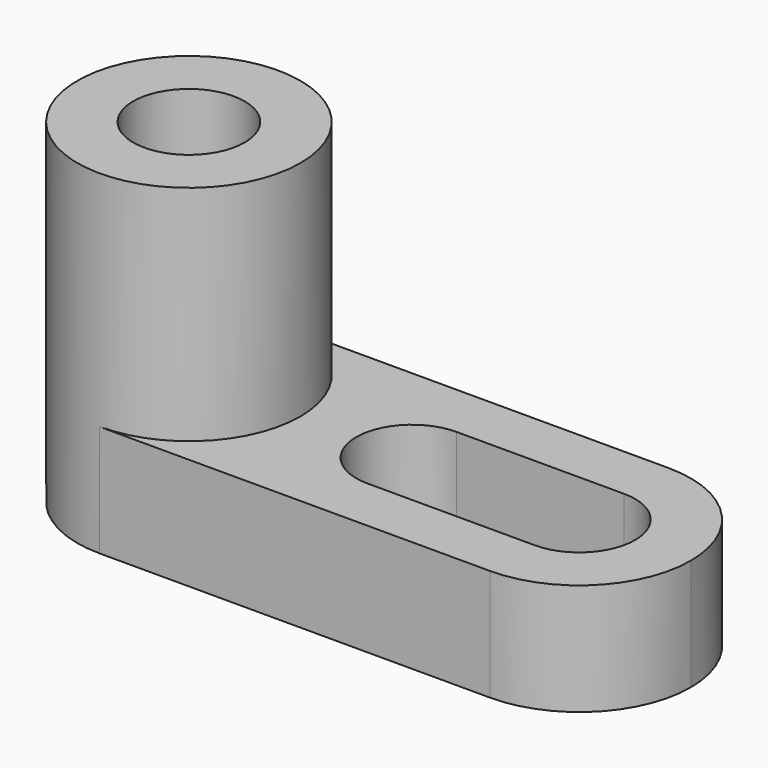
from build123d import *

# Parameters (mm, degrees)
F0_W     = 69.85
F0_H     = 12.7
F1_DEPTH = 25.4
F2_R     = 12.7
F2_R_2   = 6.35
F3_DEPTH = 25.4
F4_DEPTH = 25.4
F6_DEPTH = 25.4


with BuildPart() as f1:
    # F0 (on Front) → F1 (new body)
    with BuildSketch(Plane.XZ):
        with Locations((34.925, 6.35)):
            Rectangle(F0_W, F0_H)
    extrude(amount=F1_DEPTH)

    # F2 (on face) → F3 (join)
    with BuildSketch(Plane.XY.offset(12.7)):
        with Locations((12.7, -12.7)):
            Circle(F2_R)
        with Locations((12.7, -12.7)):
            Circle(F2_R_2, mode=Mode.SUBTRACT)
    extrude(amount=F3_DEPTH)

    # F4 (cut): faces of the model
    f4_faces = [f1.faces().sort_by_distance(p)[0] for p in [
        (2.8367728246, -22.5632271754, 12.7),
        (2.8367728246, -2.8367728246, 12.7),
    ]]
    extrude(f4_faces, amount=-F4_DEPTH, mode=Mode.SUBTRACT)

    # F5 (on face) → F6 (cut)
    with BuildSketch(Plane.XY.offset(12.7)):
        with BuildLine():
            ThreePointArc((38.1, -19.05), (42.5901280605, -17.1901280605), (44.45, -12.7))
            ThreePointArc((44.45, -12.7), (42.5901280605, -8.2098719395), (38.1, -6.35))
            ThreePointArc((38.1, -6.35), (31.75, -12.7), (38.1, -19.05))
        make_face()
        with BuildLine():
            ThreePointArc((38.1, -6.35), (42.5901280605, -8.2098719395), (44.45, -12.7))
            ThreePointArc((44.45, -12.7), (42.5901280605, -17.1901280605), (38.1, -19.05))
            Line((38.1, -19.05), (57.15, -19.05))
            ThreePointArc((57.15, -19.05), (50.8, -12.7), (57.15, -6.35))
            Line((57.15, -6.35), (38.1, -6.35))
        make_face()
        with BuildLine():
            ThreePointArc((63.5, -12.7), (61.6401280605, -8.2098719395), (57.15, -6.35))
            ThreePointArc((57.15, -6.35), (50.8, -12.7), (57.15, -19.05))
            ThreePointArc((57.15, -19.05), (61.6401280605, -17.1901280605), (63.5, -12.7))
        make_face()
        with BuildLine():
            ThreePointArc((57.15, 0), (66.1302561211, -3.7197438789), (69.85, -12.7))
            Line((69.85, -12.7), (69.85, 0))
            Line((69.85, 0), (57.15, 0))
        make_face()
        with BuildLine():
            ThreePointArc((69.85, -12.7), (66.1302561211, -21.6802561211), (57.15, -25.4))
            Line((57.15, -25.4), (69.85, -25.4))
            Line((69.85, -25.4), (69.85, -12.7))
        make_face()
    extrude(amount=-F6_DEPTH, mode=Mode.SUBTRACT)


solid = f1.part
